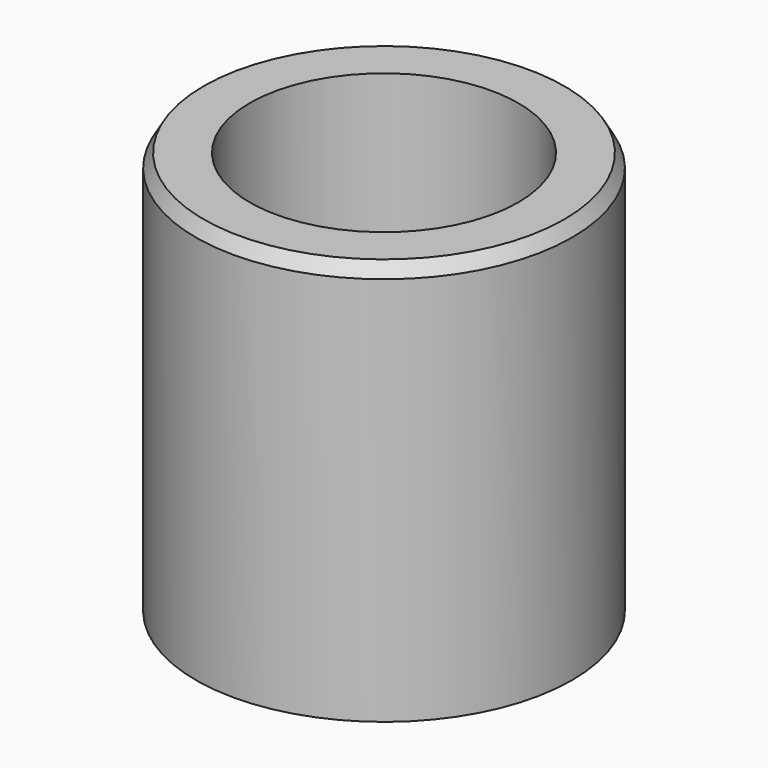
from build123d import *

# Parameters (mm, degrees)
F0_R     = 7
F0_R_2   = 5
F1_DEPTH = 15
F2_SIZE2 = 0.2886751346
F2_SIZE  = 0.5
F3_SIZE2 = 0.2886751346
F3_SIZE  = 0.5


with BuildPart() as f1:
    # F0 (on Top) → F1 (new body)
    with BuildSketch(Plane.XY):
        Circle(F0_R)
        Circle(F0_R_2, mode=Mode.SUBTRACT)
    extrude(amount=F1_DEPTH)

    # F2
    f2_edges = [f1.edges().sort_by_distance(p)[0] for p in [
        (-7, 0, 15),
    ]]
    f2_side = f1.faces().sort_by_distance((-7, 0, 7.5))[0]
    chamfer(f2_edges, length=F2_SIZE, length2=F2_SIZE2, reference=f2_side)

    # F3
    f3_edges = [f1.edges().sort_by_distance(p)[0] for p in [
        (-5, 0, 0),
    ]]
    f3_side = f1.faces().sort_by_distance((-5, 0, 7.5))[0]
    chamfer(f3_edges, length=F3_SIZE, length2=F3_SIZE2, reference=f3_side)


solid = f1.part
